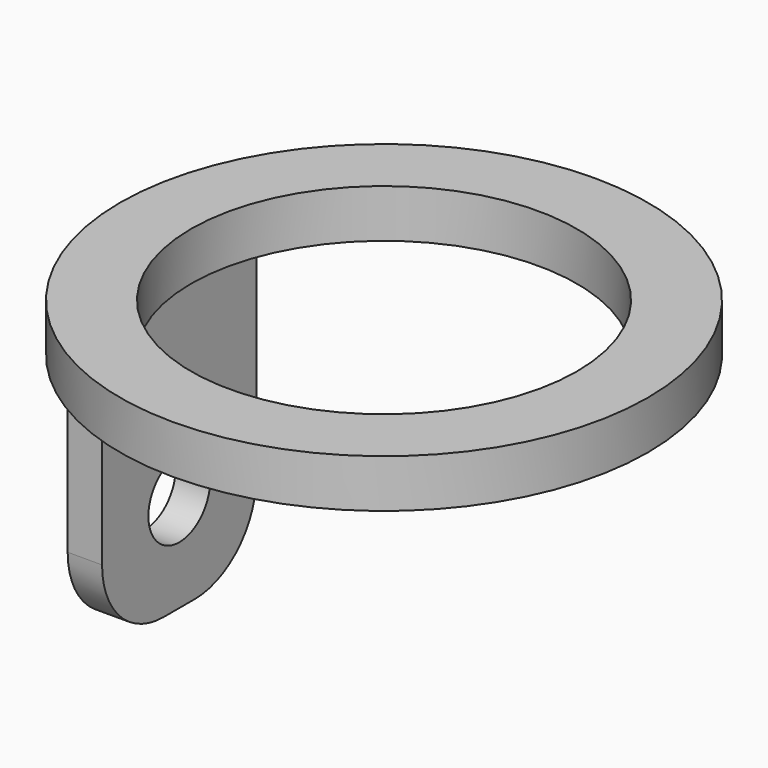
from build123d import *

# Parameters (mm, degrees)
F0_R     = 27.361448
F0_R_2   = 20
F1_DEPTH = 5
F2_W     = 3.56566
F2_H     = 20
F3_DEPTH = 30
F4_R     = 4
F5_DEPTH = 25
F6_R     = 8


with BuildPart() as f1:
    # F0 (on Top) → F1 (new body)
    with BuildSketch(Plane.XY):
        Circle(F0_R)
        Circle(F0_R_2, mode=Mode.SUBTRACT)
    extrude(amount=F1_DEPTH)

    # F2 (on face) → F3 (join)
    with BuildSketch(Plane(origin=(0, 0, 0), x_dir=(1, 0, 0), z_dir=(0, 0, -1))):
        with Locations((-23.004174, 0)):
            Rectangle(F2_W, F2_H)
    extrude(amount=F3_DEPTH)

    # F4 (on face) → F5 (cut)
    with BuildSketch(Plane(origin=(-24.787004, 0, 0), x_dir=(0, -1, 0), z_dir=(-1, 0, 0))):
        with Locations((0, -20)):
            Circle(F4_R)
    extrude(amount=-F5_DEPTH, mode=Mode.SUBTRACT)

    # F6
    f6_edges = [f1.edges().sort_by_distance(p)[0] for p in [
        (-23.004174, -10, -30),
        (-23.004174, 10, -30),
    ]]
    fillet(f6_edges, radius=F6_R)


solid = f1.part
